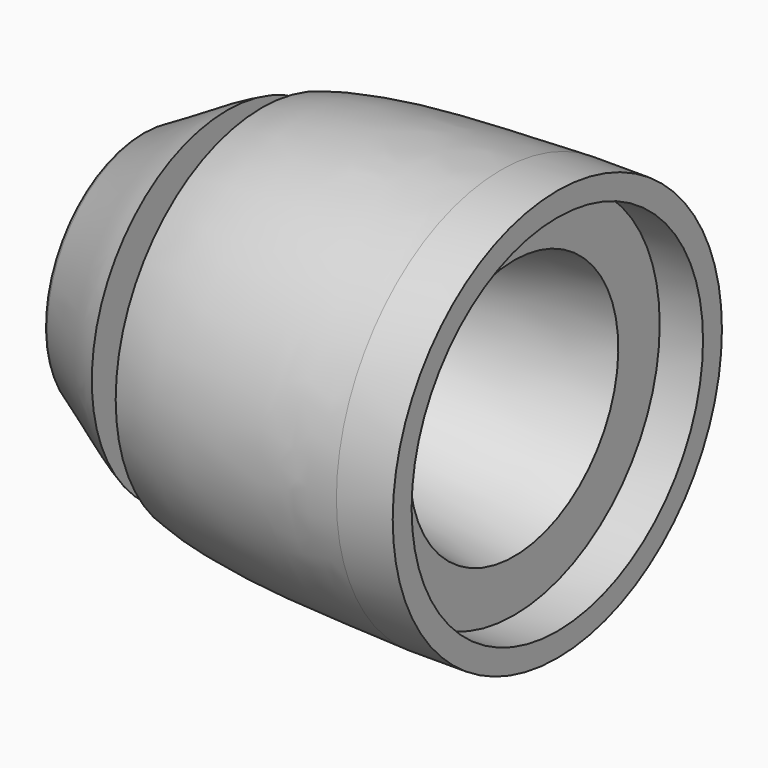
from build123d import *


with BuildPart() as f1:
    # F0 (on Front) → F1 (revolve)
    with BuildSketch(Plane.XZ):
        with BuildLine():
            ThreePointArc((4.183166, 28.4140925651), (3.005042448, 26.6910164945), (4.0025999075, 24.8574829214))
            ThreePointArc((4.0025999075, 24.8574829214), (15.1071112107, 20.5010701559), (27.0024699122, 19.6128444932))
            Line((27.0024699122, 19.6128444932), (89.2047976328, 30.1))
            Line((89.2047976328, 30.1), (89.2047976328, 42.05))
            Line((89.2047976328, 42.05), (99.2047976328, 42.05))
            Line((99.2047976328, 42.05), (99.2047976328, 47.5))
            Line((99.2047976328, 47.5), (86.2047976328, 47.5))
            add(Edge.make_bspline(
                [(31.0024699122, 42.1920199909), (45.6814790288, 46.6541446853), (66.8331744446, 46.6543637211), (86.2047976328, 47.5)],
                knots=[0.4274551338, 0.4274551338, 0.4274551338, 0.4274551338, 1, 1, 1, 1], degree=3))
            Line((31.0024699122, 42.1920199909), (31.0024699122, 24.708148092))
            Line((31.0024699122, 24.708148092), (23.0024699122, 24.708148092))
            Line((23.0024699122, 24.708148092), (23.0024699122, 39.0867841668))
            add(Edge.make_bspline(
                [(4.183166, 28.4140925651), (10.5303895975, 31.7579291187), (16.1233335949, 35.8378131978), (23.0024699122, 39.0867841668)],
                knots=[0, 0, 0, 0, 0.3145414236, 0.3145414236, 0.3145414236, 0.3145414236], degree=3))
        make_face()
    revolve(axis=Axis((39.1335301101, 0, 0), (1, 0, 0)))


solid = f1.part
